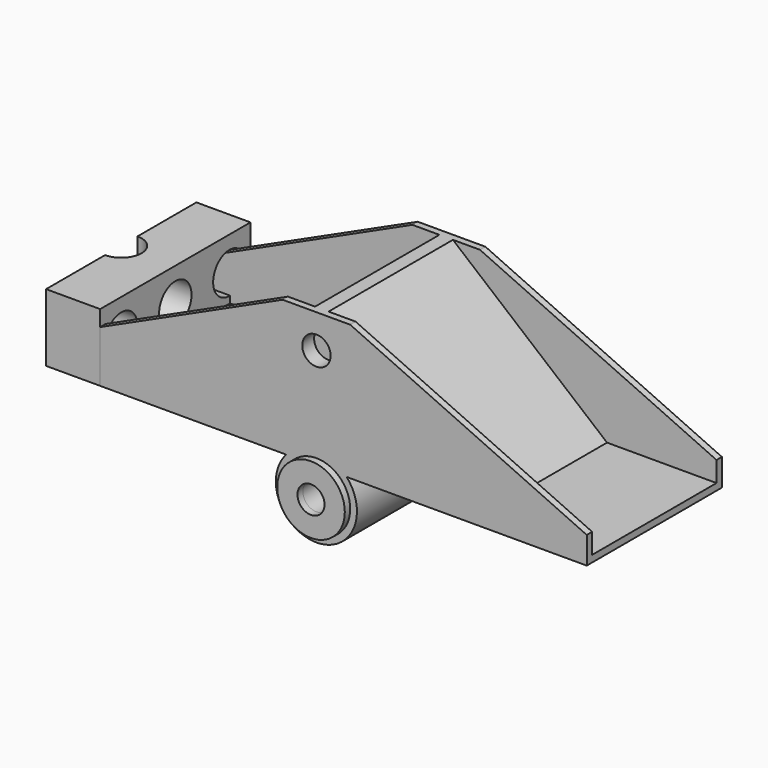
from build123d import *

# Parameters (mm, degrees)
SKETCH_W             = 80
SKETCH_H             = 25
PAD_DEPTH            = 20
SKETCH001_W          = 39
SKETCH001_H          = 23
POCKET_DEPTH         = 19
POCKET001_DEPTH      = 25.001
PAD006_DEPTH         = 23
PAD007_DEPTH         = 23
SKETCH003_R          = 3
PAD001_DEPTH         = 25
SKETCH004_R          = 2.1
POCKET002_DEPTH      = 2.2
SKETCH007_R          = 2.1
POCKET004_DEPTH      = 2.2
SKETCH005_R          = 6
PAD002_DEPTH         = 25
SKETCH006_R          = 5
PAD003_DEPTH         = 1
SKETCH009_R          = 5
PAD004_DEPTH         = 1
SKETCH008_R          = 2
POCKET005_DEPTH      = 26.001
POCKET005_DEPTH_BACK = -1.001
SKETCH010_W          = 27.8
SKETCH010_H          = 10
PAD005_DEPTH         = 8
SKETCH011_R          = 3
POCKET006_DEPTH      = 8.001
SKETCH012_R          = 3
HOLE_DEPTH           = 10.001


with BuildPart() as obj1:
    # Sketch → Pad (new body)
    with BuildSketch(Plane.XY):
        with Locations((40, 12.5)):
            Rectangle(SKETCH_W, SKETCH_H)
    extrude(amount=PAD_DEPTH)

    # Sketch001 (on Face6 of Pad) → Pocket (cut)
    with BuildSketch(Plane.XY.offset(20)):
        with Locations((19.5, 12.5)):
            Rectangle(SKETCH001_W, SKETCH001_H)
        with Locations((60.5, 12.5)):
            Rectangle(SKETCH001_W, SKETCH001_H)
    extrude(amount=-POCKET_DEPTH, mode=Mode.SUBTRACT)

    # Sketch002 → Pocket001 (cut, through all)
    with BuildSketch(Plane.XZ):
        Polygon((0, 4), (35, 20), (0, 20), align=None)
        Polygon((80, 4), (80, 20), (45, 20), align=None)
    extrude(amount=-POCKET001_DEPTH, mode=Mode.SUBTRACT)

    # Sketch013 (on DatumPlane) → Pad006 (join)
    with BuildSketch(Plane.XZ.offset(-24)):
        Polygon((15, 0), (39, 0), (39, 20), align=None)
    extrude(amount=PAD006_DEPTH)

    # Sketch014 (on DatumPlane) → Pad007 (join)
    with BuildSketch(Plane.XZ.offset(-24)):
        Polygon((41, 0), (41, 20), (65, 0), align=None)
    extrude(amount=PAD007_DEPTH)

    # Sketch003 → Pad001 (join)
    with BuildSketch(Plane.XZ):
        with Locations((40, 15)):
            Circle(SKETCH003_R)
    extrude(amount=-PAD001_DEPTH)

    # Sketch004 → Pocket002 (cut)
    with BuildSketch(Plane.XZ):
        with Locations((40, 15)):
            Circle(SKETCH004_R)
    extrude(amount=-POCKET002_DEPTH, mode=Mode.SUBTRACT)

    # Sketch007 → Pocket004 (cut)
    with BuildSketch(Plane(origin=(0, 25, 0), x_dir=(-1, 0, 0), z_dir=(0, 1, 0))):
        with Locations((-40, 15)):
            Circle(SKETCH007_R)
    extrude(amount=-POCKET004_DEPTH, mode=Mode.SUBTRACT)

    # Sketch005 → Pad002 (join)
    with BuildSketch(Plane.XZ):
        with Locations((40, -4)):
            Circle(SKETCH005_R)
    extrude(amount=-PAD002_DEPTH)

    # Sketch006 → Pad003 (join)
    with BuildSketch(Plane.XZ):
        with Locations((40, -4)):
            Circle(SKETCH006_R)
    extrude(amount=PAD003_DEPTH)

    # Sketch009 (on Face1 of Pocket005) → Pad004 (join)
    with BuildSketch(Plane(origin=(0, 25, 0), x_dir=(-1, 0, 0), z_dir=(0, 1, 0))):
        with Locations((-40, -4)):
            Circle(SKETCH009_R)
    extrude(amount=PAD004_DEPTH)

    # Sketch008 → Pocket005 (cut, two sides)
    with BuildSketch(Plane.XZ) as pocket005_sk:
        with Locations((40, -4)):
            Circle(SKETCH008_R)
    extrude(amount=-POCKET005_DEPTH, mode=Mode.SUBTRACT)
    extrude(pocket005_sk.sketch, amount=-POCKET005_DEPTH_BACK, mode=Mode.SUBTRACT)


with BuildPart() as obj2:
    # Sketch010 → Pad005 (new body)
    with BuildSketch(Plane.YZ):
        with Locations((13.9, 5)):
            Rectangle(SKETCH010_W, SKETCH010_H)
    extrude(amount=PAD005_DEPTH)

    # Sketch011 (on DatumPlane) → Pocket006 (cut, through all)
    with BuildSketch(Plane.YZ.offset(8)):
        with Locations((3.9, 5)):
            Circle(SKETCH011_R)
        with Locations((23.9, 5)):
            Circle(SKETCH011_R)
        with Locations((13.9, 5)):
            Circle(SKETCH011_R)
    extrude(amount=-POCKET006_DEPTH, mode=Mode.SUBTRACT)

    # Sketch012 (on DatumPlane) → Hole (cut, through all)
    with BuildSketch(Plane.YX):
        with Locations((13.9, 0)):
            Circle(SKETCH012_R)
    extrude(amount=-HOLE_DEPTH, mode=Mode.SUBTRACT)


solid = Compound([obj1.part, obj2.part])
